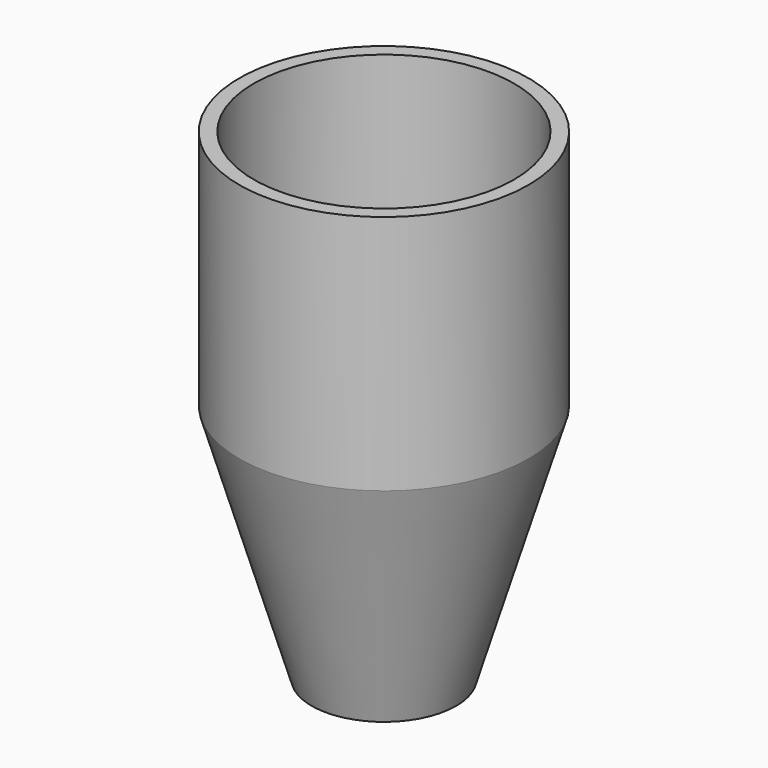
from build123d import *

# Parameters (mm, degrees)
F2_T = -3


with BuildPart() as f1:
    # F0 (on Front) → F1 (revolve)
    with BuildSketch(Plane.XZ):
        Polygon((30, 44.142854), (0, 44.142854), (0, -55.857146), (15, -55.857146), (30, -5.857146), align=None)
    revolve(axis=Axis((0, 0, 2.428572), (0, 0, -1)))

    # F2
    f2_openings = [f1.faces().sort_by_distance(p)[0] for p in [
        (0, 0, 44.142854),
        (0, 0, -55.857146),
    ]]
    offset(amount=F2_T, openings=f2_openings)


solid = f1.part
